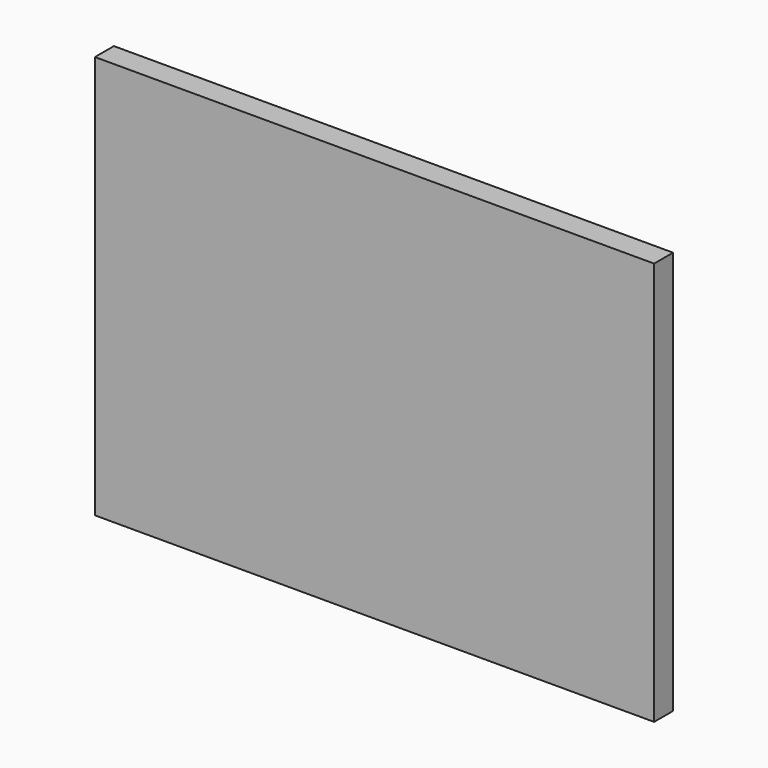
from build123d import *

# Parameters (mm, degrees)
F0_W     = 41.193618881
F0_H     = 31.4382258803
F1_DEPTH = 3.69428


with BuildPart() as f1:
    # F0 (on Front) → F1 (new body)
    with BuildSketch(Plane.XZ):
        Polygon((18.7740228377, -31.4382258803), (43.5686627365, -31.4382258803), (43.5686627365, 31.4382258803), (-43.5686627365, 31.4382258803), (-43.5686627365, -31.4382258803), (-22.7860780433, -31.4382258803), (-22.7860780433, 0.183241), (18.7740228377, 0.183241), align=None)
        Polygon((18.5907818377, -31.4382258803), (18.7740228377, -31.4382258803), (18.7740228377, 0.183241), (-22.7860780433, 0.183241), (-22.7860780433, -31.4382258803), (-22.6028370433, -31.4382258803), (-22.6028370433, 0), (18.5907818377, 0), align=None)
        with Locations((-2.0060276028, -15.7191129401)):
            Rectangle(F0_W, F0_H)
    extrude(amount=F1_DEPTH)


solid = f1.part
